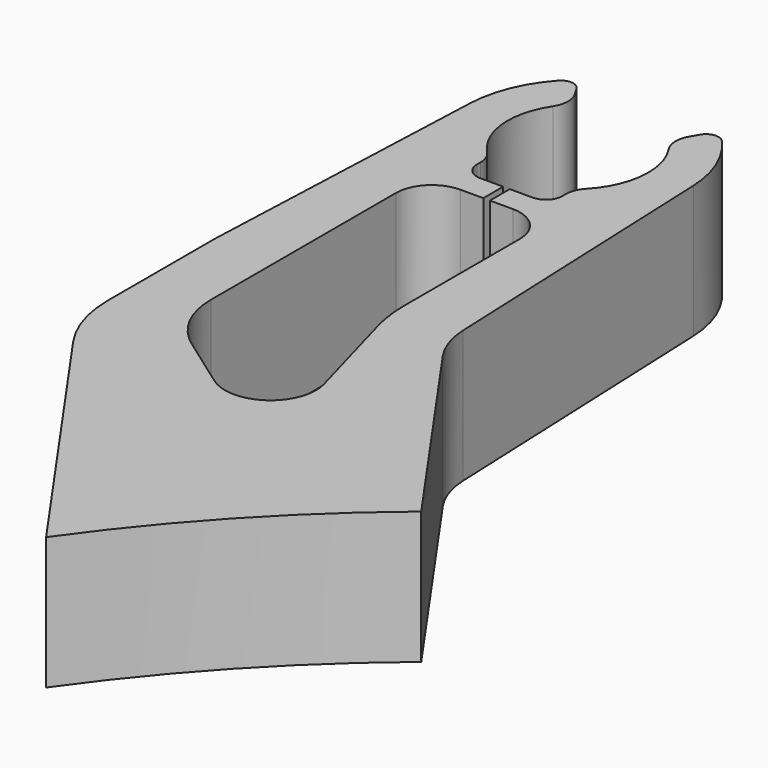
from build123d import *

# Parameters (mm, degrees)
PAD_DEPTH = 16


with BuildPart() as part:
    # Sketch008 → Pad (new body)
    with BuildSketch(Plane.XY):
        with BuildLine():
            Line((-15, -36.103415), (-13.488123, 0.576563))
            ThreePointArc((-9.888981, 9.384513), (-12.459776, 5.295679), (-13.488123, 0.576563))
            ThreePointArc((-7.476837, 9.129029), (-8.617886, 9.870686), (-9.888981, 9.384513))
            Line((-7.476837, 9.129029), (-6.901924, 8.13325))
            ThreePointArc((-7, 4.974937), (-6.501445, 6.540134), (-6.901924, 8.13325))
            ThreePointArc((-7, 4.974937), (-8.464339, -0.800395), (-6, -6.22495))
            ThreePointArc((-5.166667, -8.299933), (-5.382784, -7.181899), (-6, -6.22495))
            Line((-5.166667, -8.299933), (-5.166667, -8.799933))
            ThreePointArc((-5.166667, -8.799933), (-4.58088, -10.214147), (-3.166667, -10.799933))
            Line((-3.166667, -10.799933), (-0.4, -10.799933))
            Line((-0.4, -10.799933), (-0.4, -13.799933))
            Line((-3.166667, -13.799933), (-0.4, -13.799933))
            ThreePointArc((-3.166667, -13.799933), (-6.230796, -15.069137), (-7.5, -18.133266))
            Line((-7.5, -18.133266), (-7.5, -46.090027))
            ThreePointArc((-7.5, -46.090027), (-6.390434, -50.668257), (-3.307962, -54.230517))
            Line((-3.307962, -54.230517), (3.108659, -58.808557))
            ThreePointArc((3.108659, -58.808557), (9.457708, -58.836624), (11.602837, -52.860869))
            Line((8.136694, -40.367919), (11.602837, -52.860869))
            ThreePointArc((7.5, -35.691584), (7.659904, -38.051324), (8.136694, -40.367919))
            Line((7.5, -35.691584), (7.5, -18.133266))
            ThreePointArc((7.5, -18.133266), (6.230796, -15.069137), (3.166667, -13.799933))
            Line((0.4, -13.799933), (3.166667, -13.799933))
            Line((0.4, -10.799933), (0.4, -13.799933))
            Line((0.4, -10.799933), (3.166667, -10.799933))
            ThreePointArc((3.166667, -10.799933), (4.58088, -10.214147), (5.166667, -8.799933))
            Line((5.166667, -8.299933), (5.166667, -8.799933))
            ThreePointArc((6, -6.22495), (5.382784, -7.181899), (5.166667, -8.299933))
            ThreePointArc((6, -6.22495), (8.464339, -0.800395), (7, 4.974937))
            ThreePointArc((6.901924, 8.13325), (6.501445, 6.540134), (7, 4.974937))
            Line((7.476837, 9.129029), (6.901924, 8.13325))
            ThreePointArc((9.888981, 9.384513), (8.617886, 9.870686), (7.476837, 9.129029))
            ThreePointArc((13.488123, 0.576563), (12.459776, 5.295679), (9.888981, 9.384513))
            Line((15, -36.103415), (13.488123, 0.576563))
            ThreePointArc((15, -36.103415), (15.518303, -38.894431), (16.799996, -41.427348))
            Line((35.043138, -67.481255), (16.799996, -41.427348))
            ThreePointArc((35.043138, -67.481255), (21.967147, -79.759147), (10.666391, -93.688291))
            Line((10.666391, -93.688291), (-12.287281, -60.90705))
            ThreePointArc((-15, -52.303404), (-14.305754, -56.813991), (-12.287281, -60.90705))
            Line((-15, -36.103415), (-15, -52.303404))
        make_face()
    extrude(amount=PAD_DEPTH)


solid = part.part
